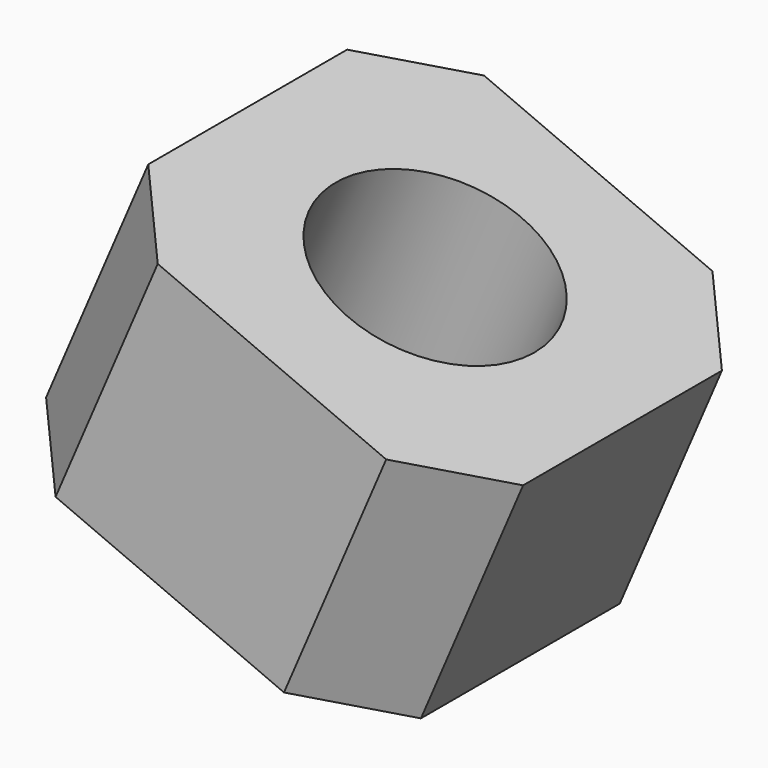
from build123d import *

# Parameters (mm, degrees)
F4_R     = 5
F5_DEPTH = 12


with BuildPart() as f5:
    # F4 (on 3pt) → F5 (new body)
    with BuildSketch(Plane(origin=(0, 0, 0), x_dir=(0.91914503, 0, -0.3939192986), z_dir=(0.3939192986, 0, 0.91914503))):
        Polygon((5.75, 9.435), (0, 9.435), (-5.75, 9.435), (-9.435, 5.75), (-9.435, 0), (-9.435, -5.75), (-5.75, -9.435), (0, -9.435), (5.75, -9.435), (9.435, -5.75), (9.435, 5.75), align=None)
        Circle(F4_R, mode=Mode.SUBTRACT)
    extrude(amount=F5_DEPTH)


solid = f5.part
